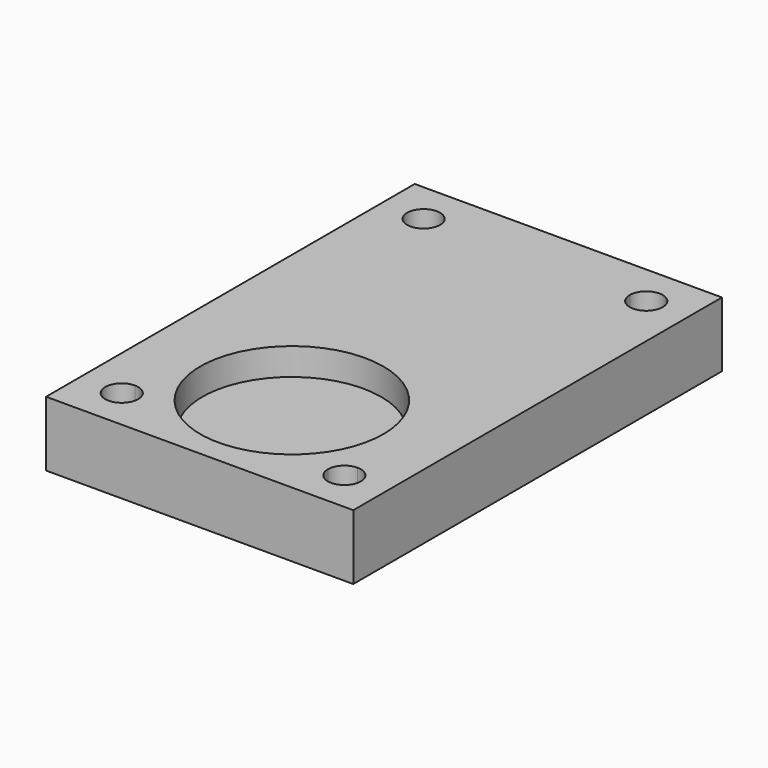
from build123d import *

# Parameters (mm, degrees)
F0_W     = 120
F0_H     = 180
F1_DEPTH = 25.4
F2_R     = 34.950835
F3_DEPTH = 15.24


with BuildPart() as f1:
    # F0 (on Top) → F1 (new body)
    with BuildSketch(Plane.XY):
        Rectangle(F0_W, F0_H)
        with BuildLine():
            ThreePointArc((21.375712, -73.704138), (0, -80.788946), (-21.375712, -73.704138))
            Line((-21.375712, -73.704138), (-37.045277, -73.704138))
            ThreePointArc((-37.045277, -73.704138), (-48.031419, -78.254748), (-43.48081, -67.268605))
            Line((-43.48081, -67.268605), (-43.48081, 0))
            Line((-43.48081, 0), (-43.48081, 67.268605))
            ThreePointArc((-43.48081, 67.268605), (-48.031419, 78.254748), (-37.045277, 73.704138))
            Line((-37.045277, 73.704138), (37.045277, 73.704138))
            ThreePointArc((37.045277, 73.704138), (43.48081, 80.139672), (49.916343, 73.704138))
            ThreePointArc((49.916343, 73.704138), (48.031419, 69.153529), (43.48081, 67.268605))
            Line((43.48081, 67.268605), (43.48081, 0))
            Line((43.48081, 0), (43.48081, -67.268605))
            ThreePointArc((43.48081, -67.268605), (48.031419, -69.153529), (49.916343, -73.704138))
            ThreePointArc((49.916343, -73.704138), (43.48081, -80.139672), (37.045277, -73.704138))
            Line((37.045277, -73.704138), (21.375712, -73.704138))
        make_face(mode=Mode.SUBTRACT)
        with BuildLine():
            Line((-43.48081, 67.268605), (-43.48081, 0))
            Line((-43.48081, 0), (43.48081, 0))
            Line((43.48081, 0), (43.48081, 67.268605))
            ThreePointArc((43.48081, 67.268605), (38.930201, 69.153529), (37.045277, 73.704138))
            Line((37.045277, 73.704138), (-37.045277, 73.704138))
            ThreePointArc((-37.045277, 73.704138), (-38.930201, 69.153529), (-43.48081, 67.268605))
        make_face()
        with BuildLine():
            ThreePointArc((-21.375712, -73.704138), (-16.059801, -13.016701), (35.788946, -45))
            ThreePointArc((35.788946, -45), (31.983299, -61.059801), (21.375712, -73.704138))
            Line((21.375712, -73.704138), (37.045277, -73.704138))
            ThreePointArc((37.045277, -73.704138), (38.930201, -69.153529), (43.48081, -67.268605))
            Line((43.48081, -67.268605), (43.48081, 0))
            Line((43.48081, 0), (-43.48081, 0))
            Line((-43.48081, 0), (-43.48081, -67.268605))
            ThreePointArc((-43.48081, -67.268605), (-38.930201, -69.153529), (-37.045277, -73.704138))
            Line((-37.045277, -73.704138), (-21.375712, -73.704138))
        make_face()
    extrude(amount=F1_DEPTH)


with BuildPart() as f3:
    # F2 (on Top) → F3 (new body)
    with BuildSketch(Plane.XY):
        with Locations((0, -45.045778)):
            Circle(F2_R)
    extrude(amount=F3_DEPTH)


solid = Compound([f1.part, f3.part])
